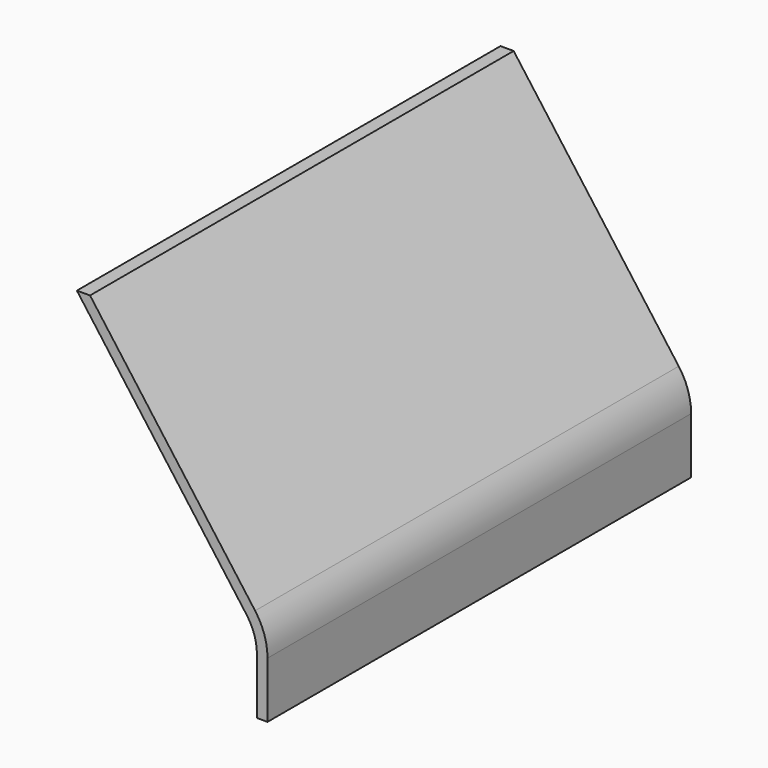
from build123d import *

# Parameters (mm, degrees)
F1_DEPTH = 50


with BuildPart() as f1:
    # F0 (on Front) → F1 (new body)
    with BuildSketch(Plane.XZ):
        with BuildLine():
            Line((-10.243442, 29.963662), (-9.243442, 29.963662))
            Line((-9.243442, 29.963662), (-9.243442, 35.263662))
            ThreePointArc((-9.243442, 35.263662), (-9.543654, 37.137807), (-10.414248, 38.824404))
            Line((-10.414248, 38.824404), (-26.000998, 59.963662))
            Line((-26.000998, 59.963662), (-27.243442, 59.963662))
            Line((-27.243442, 59.963662), (-11.219113, 38.230947))
            ThreePointArc((-11.219113, 38.230947), (-10.493618, 36.825449), (-10.243442, 35.263662))
            Line((-10.243442, 35.263662), (-10.243442, 29.963662))
        make_face()
    extrude(amount=F1_DEPTH)


solid = f1.part
